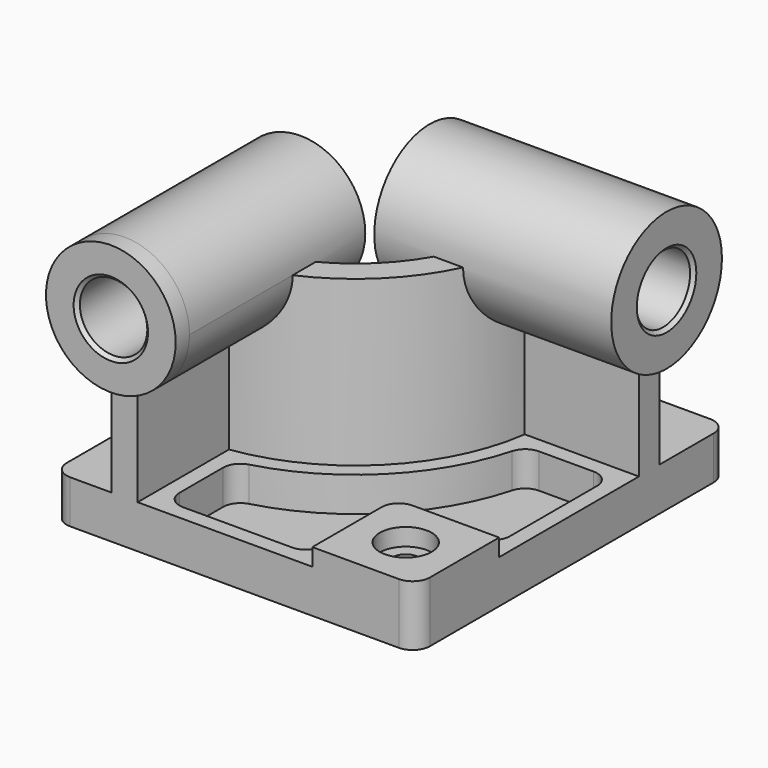
from build123d import *

# Parameters (mm, degrees)
F0_W            = 5334
F0_H            = 5715
F1_DEPTH        = 635
F3_DEPTH        = 2413
F4_R            = 952.5
F5_DEPTH        = 254
F5_DEPTH_BACK   = 3225.8
F6_R            = 1016
F7_DEPTH        = 254
F7_DEPTH_BACK   = 3225.8
F8_W            = 1524
F8_H            = 1524
F9_DEPTH        = 254
F10_R           = 254
F12_DEPTH       = 508
F14_D           = 381
F14_CBORE_D     = 762
F14_CBORE_DEPTH = 254
F15_R           = 254
F16_R           = 495.3
F17_DEPTH       = 5969.001
F18_R           = 495.3
F19_DEPTH       = 5588.001
F20_SIZE        = 50.8
F21_R           = 254


with BuildPart() as f1:
    # F0 (on Top) → F1 (new body)
    with BuildSketch(Plane.XY):
        with Locations((382.562666, 0)):
            Rectangle(F0_W, F0_H)
    extrude(amount=F1_DEPTH)

    # F2 (on face) → F3 (join)
    with BuildSketch(Plane.XY.offset(635)):
        with BuildLine():
            Line((-1420.837334, -825.5), (-1420.837334, -2857.5))
            Line((-1420.837334, -2857.5), (-1039.837334, -2857.5))
            Line((-1039.837334, -2857.5), (-1039.837334, -1180.638144))
            ThreePointArc((-1039.837334, -1180.638144), (572.779525, -380.716859), (1372.70081, 1231.9))
            Line((1372.70081, 1231.9), (3049.562666, 1231.9))
            Line((3049.562666, 1231.9), (3049.562666, 1612.9))
            Line((3049.562666, 1612.9), (1017.562666, 1612.9))
            ThreePointArc((1017.562666, 1612.9), (303.371841, -111.309175), (-1420.837334, -825.5))
        make_face()
    extrude(amount=F3_DEPTH)

    # F4 (on face) → F5 (join, two sides)
    with BuildSketch(Plane.XZ.offset(2857.5)) as f5_sk:
        with Locations((-1230.337334, 3048)):
            Circle(F4_R)
    extrude(amount=F5_DEPTH)
    extrude(f5_sk.sketch, amount=-F5_DEPTH_BACK)

    # F6 (on face) → F7 (join, two sides)
    with BuildSketch(Plane.YZ.offset(3049.562666)) as f7_sk:
        with Locations((1422.4, 3048)):
            Circle(F6_R)
    extrude(amount=F7_DEPTH)
    extrude(f7_sk.sketch, amount=-F7_DEPTH_BACK)

    # F8 (on face) → F9 (join)
    with BuildSketch(Plane.XY.offset(635)):
        with Locations((2287.562666, -2095.5)):
            Rectangle(F8_W, F8_H)
    extrude(amount=F9_DEPTH)

    # F10
    f10_edges = [f1.edges().sort_by_distance(p)[0] for p in [
        (1525.562666, -1333.5, 762),
    ]]
    fillet(f10_edges, radius=F10_R)

    # F11 (on face) → F12 (cut)
    with BuildSketch(Plane.XY.offset(635)):
        with BuildLine():
            ThreePointArc((1565.58056, 1003.3), (734.424135, -542.361469), (-811.237334, -1373.517894))
            Line((-811.237334, -1373.517894), (-811.237334, -2628.9))
            Line((-811.237334, -2628.9), (1296.962666, -2628.9))
            Line((1296.962666, -2628.9), (1296.962666, -1587.5))
            ThreePointArc((1296.962666, -1587.5), (1438.312933, -1246.250267), (1779.562666, -1104.9))
            Line((1779.562666, -1104.9), (2820.962666, -1104.9))
            Line((2820.962666, -1104.9), (2820.962666, 1003.3))
            Line((2820.962666, 1003.3), (1565.58056, 1003.3))
        make_face()
    extrude(amount=-F12_DEPTH, mode=Mode.SUBTRACT)

    # F14 (through all)
    with Locations(Plane.XY.offset(889)):
        with Locations((2287.562666, -2095.5)):
            CounterBoreHole(F14_D / 2, F14_CBORE_D / 2, F14_CBORE_DEPTH)

    # F15
    f15_edges = [f1.edges().sort_by_distance(p)[0] for p in [
        (-811.237334, -1373.517894, 381),
        (1565.58056, 1003.3, 381),
        (-811.237334, -2628.9, 381),
        (2820.962666, 1003.3, 381),
        (1296.962666, -2628.9, 381),
        (2820.962666, -1104.9, 381),
    ]]
    fillet(f15_edges, radius=F15_R)

    # F16 (on face) → F17 (cut, through all)
    with BuildSketch(Plane.XZ.offset(3111.5)):
        with Locations((-1230.337334, 3048)):
            Circle(F16_R)
    extrude(amount=-F17_DEPTH, mode=Mode.SUBTRACT)

    # F18 (on face) → F19 (cut, through all)
    with BuildSketch(Plane.YZ.offset(3303.562666)):
        with Locations((1422.4, 3048)):
            Circle(F18_R)
    extrude(amount=-F19_DEPTH, mode=Mode.SUBTRACT)

    # F20
    f20_edges = [f1.edges().sort_by_distance(p)[0] for p in [
        (-1725.637334, -3111.5, 3048),
        (3303.562666, 927.1, 3048),
        (-1725.637334, 368.3, 3048),
        (-176.237334, 927.1, 3048),
    ]]
    chamfer(f20_edges, length=F20_SIZE)

    # F21
    f21_edges = [f1.edges().sort_by_distance(p)[0] for p in [
        (-2284.437334, -2857.5, 317.5),
        (3049.562666, -2857.5, 444.5),
        (3049.562666, 2857.5, 317.5),
        (-2284.437334, 2857.5, 317.5),
    ]]
    fillet(f21_edges, radius=F21_R)


solid = f1.part
